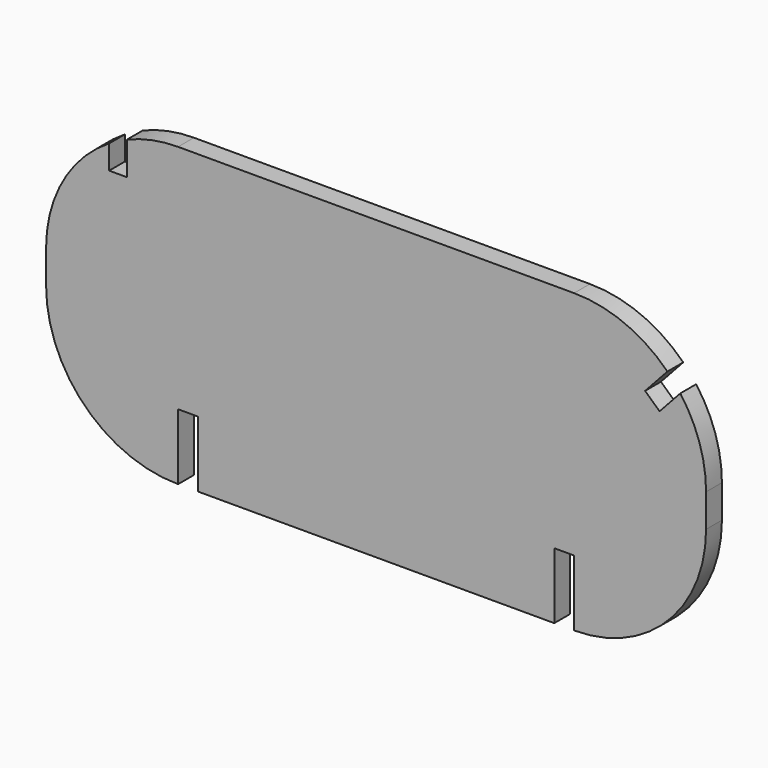
from build123d import *

# Parameters (mm, degrees)
F1_DEPTH = 3


with BuildPart() as f1:
    # F0 (on Front) → F1 (new body)
    with BuildSketch(Plane.XZ):
        with BuildLine():
            Line((27.675254, 25.977628), (-32.324746, 25.977628))
            ThreePointArc((-32.324746, 25.977628), (-36.290467, 25.580511), (-40.098703, 24.404933))
            Line((-40.098703, 24.404933), (-40.098703, 19.404933))
            Line((-40.098703, 19.404933), (-42.767557, 19.404933))
            Line((-42.767557, 19.404933), (-42.767557, 23.034817))
            ThreePointArc((-42.767557, 23.034817), (-49.772614, 15.753715), (-52.324746, 5.977628))
            Line((-52.324746, 5.977628), (-52.324746, 0.977628))
            ThreePointArc((-52.324746, 0.977628), (-46.466882, -13.164508), (-32.324746, -19.022372))
            Line((-32.324746, -19.022372), (-32.324746, -9.022372))
            Line((-32.324746, -9.022372), (-29.324746, -9.022372))
            Line((-29.324746, -9.022372), (-29.324746, -19.022372))
            Line((-29.324746, -19.022372), (24.675254, -19.022372))
            Line((24.675254, -19.022372), (24.675254, -9.022372))
            Line((24.675254, -9.022372), (27.675254, -9.022372))
            Line((27.675254, -9.022372), (27.675254, -19.022372))
            ThreePointArc((27.675254, -19.022372), (41.81739, -13.164508), (47.675254, 0.977628))
            Line((47.675254, 0.977628), (47.675254, 5.977628))
            ThreePointArc((47.675254, 5.977628), (46.674828, 12.223921), (43.773636, 17.845318))
            Line((43.773636, 17.845318), (40.629784, 14.421898))
            Line((40.629784, 14.421898), (38.435426, 16.437057))
            Line((38.435426, 16.437057), (41.81739, 20.119763))
            ThreePointArc((41.81739, 20.119763), (35.328923, 24.455218), (27.675254, 25.977628))
        make_face()
    extrude(amount=F1_DEPTH)


solid = f1.part
